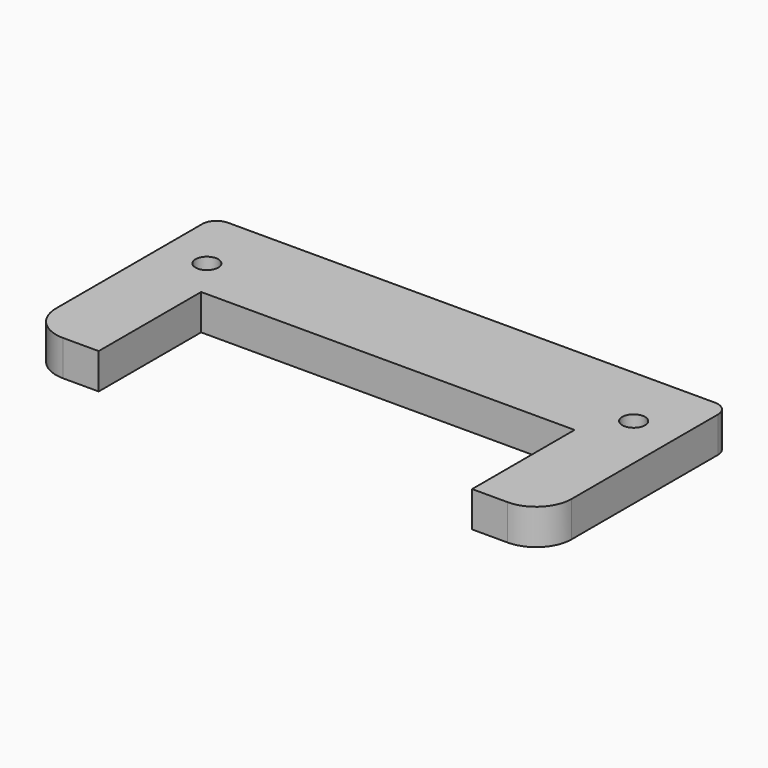
from build123d import *

# Parameters (mm, degrees)
F1_DEPTH = 5
F3_D     = 3.2
F3_DEPTH = 14.25
F3_TIP   = 0.9613769904
F4_R     = 5
F5_R     = 2


with BuildPart() as f1:
    # F0 (on Top) → F1 (new body)
    with BuildSketch(Plane.XY):
        Polygon((-36.25, 16.35), (-36.25, -16.35), (-26.25, -16.35), (-26.25, 1.65), (26.25, 1.65), (26.25, -16.35), (36.25, -16.35), (36.25, 16.35), align=None)
    extrude(amount=F1_DEPTH)

    # F3
    with Locations(Plane.XY.offset(5)):
        with Locations((-30, 7.35), (30, 7.35)):
            Hole(F3_D / 2, depth=F3_DEPTH)
            with Locations((0, 0, -(F3_DEPTH + F3_TIP / 2))):  # 118° drill point
                Cone(0, F3_D / 2, F3_TIP, mode=Mode.SUBTRACT)

    # F4
    f4_edges = [f1.edges().sort_by_distance(p)[0] for p in [
        (-36.25, -16.35, 2.5),
        (36.25, -16.35, 2.5),
    ]]
    fillet(f4_edges, radius=F4_R)

    # F5
    f5_edges = [f1.edges().sort_by_distance(p)[0] for p in [
        (36.25, 16.35, 2.5),
        (-36.25, 16.35, 2.5),
    ]]
    fillet(f5_edges, radius=F5_R)


solid = f1.part
